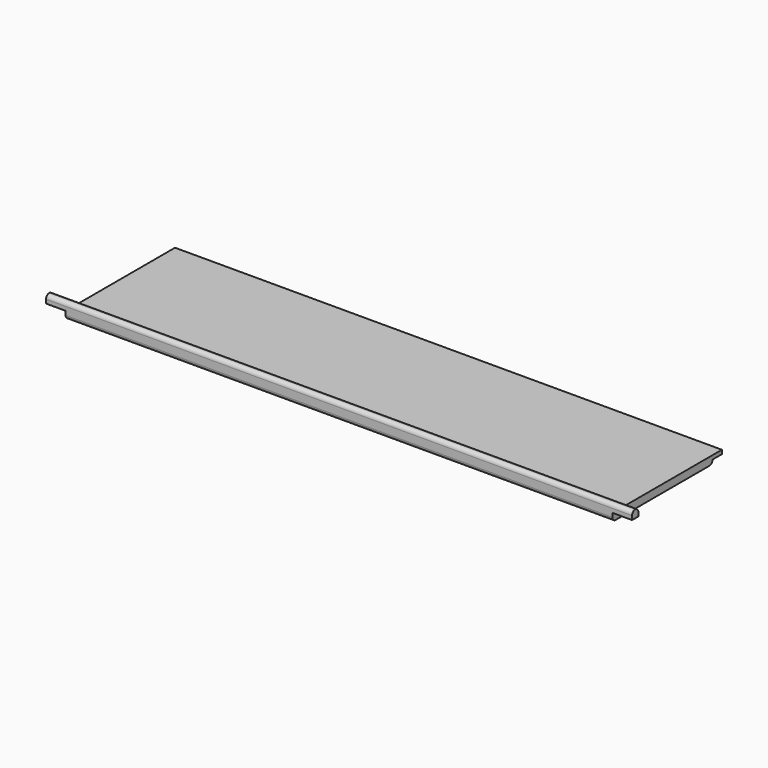
from build123d import *

# Parameters (mm, degrees)
F2_DEPTH = 140
F3_DEPTH = 145
F4_DEPTH = 5


with BuildPart() as f2:
    # F0 (on Right) → F2 (new body)
    with BuildSketch(Plane.YZ):
        with BuildLine():
            ThreePointArc((0, 1), (0.292893, 0.292893), (1, 0))
            Line((1, 0), (31, 0))
            ThreePointArc((31, 0), (31.707107, 0.292893), (32, 1))
            Line((32, 1), (35, 1))
            Line((35, 1), (35, 2))
            Line((35, 2), (0, 2))
            Line((0, 2), (0, 1))
        make_face()
    extrude(amount=-F2_DEPTH)

    # F1 (on Right) → F3 (join)
    with BuildSketch(Plane.YZ):
        with BuildLine():
            Line((0, 3), (0, 2))
            Line((0, 2), (2, 2))
            Line((2, 2), (2, 3))
            ThreePointArc((2, 3), (1.707107, 3.707107), (1, 4))
            ThreePointArc((1, 4), (0.292893, 3.707107), (0, 3))
        make_face()
    extrude(amount=-F3_DEPTH)

    # F1 (on Right) → F4 (join)
    with BuildSketch(Plane.YZ):
        with BuildLine():
            Line((0, 3), (0, 2))
            Line((0, 2), (2, 2))
            Line((2, 2), (2, 3))
            ThreePointArc((2, 3), (1.707107, 3.707107), (1, 4))
            ThreePointArc((1, 4), (0.292893, 3.707107), (0, 3))
        make_face()
    extrude(amount=F4_DEPTH)


solid = f2.part
